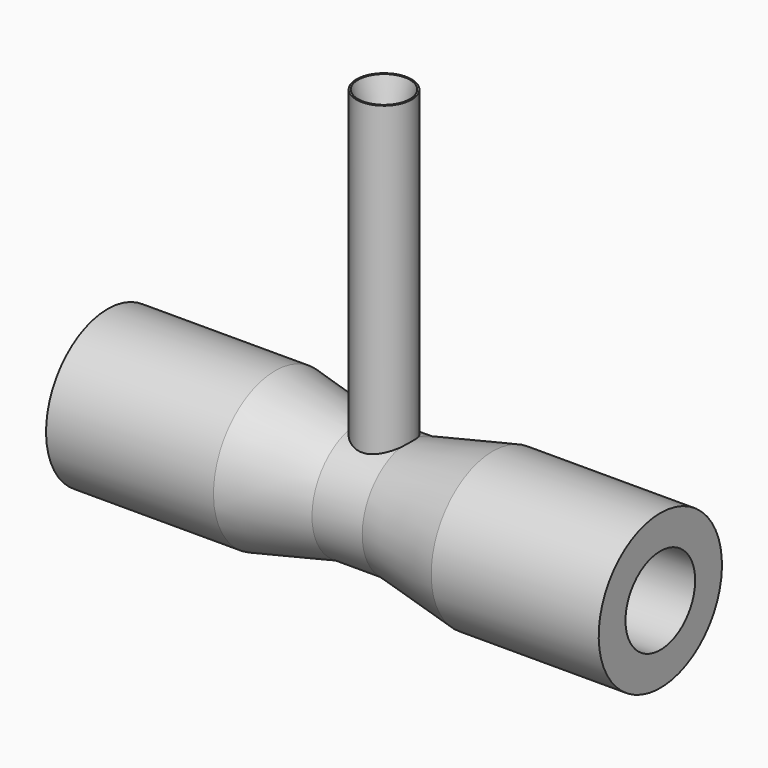
from build123d import *

# Parameters (mm, degrees)
F3_R     = 4.191
F3_R_2   = 2.921
F4_DEPTH = 50.8
F5_SIZE2 = 1.0208864232
F5_SIZE  = 3.81
F6_R     = 2.921
F7_DEPTH = 53.34


with BuildPart() as f1:
    # F0 (on Front) → F1 (revolve)
    with BuildSketch(Plane.XZ):
        Polygon((-3.81, 3.81), (0, 3.81), (3.81, 3.81), (16.51, 6.604), (41.91, 6.604), (41.91, 11.684), (16.51, 11.684), (3.81, 8.89), (0, 8.89), (-3.81, 8.89), (-16.51, 11.684), (-41.91, 11.684), (-41.91, 6.604), (-16.51, 6.604), align=None)
    revolve(axis=Axis((2.9206331819, 0, 0), (1, 0, 0)))

    # F3 (on offset) → F4 (join)
    with BuildSketch(Plane.XY.offset(3.81)):
        Circle(F3_R)
        Circle(F3_R_2, mode=Mode.SUBTRACT)
    extrude(amount=F4_DEPTH)

    # F5
    f5_edges = [f1.edges().sort_by_distance(p)[0] for p in [
        (-2.921, 0, 54.61),
    ]]
    f5_side = f1.faces().sort_by_distance((-2.921, 0, 31.503029))[0]
    chamfer(f5_edges, length=F5_SIZE, length2=F5_SIZE2, reference=f5_side)

    # F6 (on face) → F7 (cut)
    with BuildSketch(Plane.XY.offset(54.61)):
        Circle(F6_R)
    extrude(amount=-F7_DEPTH, mode=Mode.SUBTRACT)


solid = f1.part
